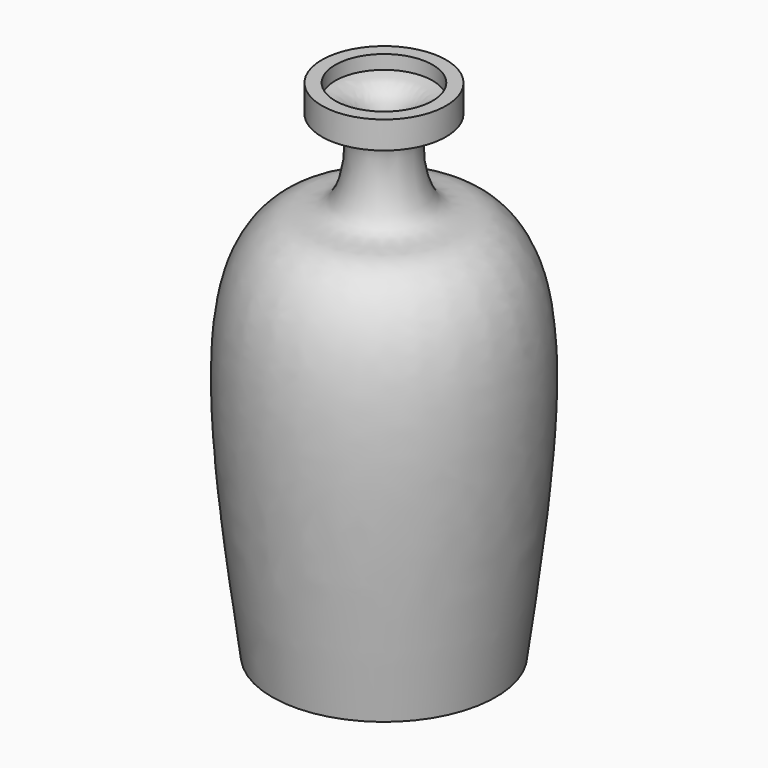
from build123d import *

# Parameters (mm, degrees)
F2_T = -2.54


with BuildPart() as f1:
    # F0 (on Front) → F1 (revolve)
    with BuildSketch(Plane.XZ):
        with BuildLine():
            Line((0, -57.6542615891), (0, 37.8870889544))
            Line((0, 37.8870889544), (-11.7661757395, 37.8870889544))
            Line((-11.7661757395, 37.8870889544), (-11.7661757395, 32.7099710703))
            add(Edge.make_bspline(
                [(-21.1791172624, -57.6542615891), (-24.4826626465, -32.9004607817), (-29.3573048502, 3.6257279301), (-15.8544292839, 17.8255351803), (-6.8904386983, 15.3834937393), (-4.3445686604, 33.0449708678), (-9.6765091911, 32.8042953673), (-11.7661757395, 32.7099710703)],
                knots=[0, 0, 0, 0, 0.3921287874, 0.578617005, 0.7059108184, 0.8847420894, 1, 1, 1, 1], degree=3))
            Line((-21.1791172624, -57.6542615891), (0, -57.6542615891))
        make_face()
    revolve(axis=Axis((0, 0, 1.7649270594), (0, 0, -1)))

    # F2
    f2_openings = [f1.faces().sort_by_distance(p)[0] for p in [
        (0, 0, 37.887089),
    ]]
    offset(amount=F2_T, openings=f2_openings, kind=Kind.INTERSECTION)


solid = f1.part
